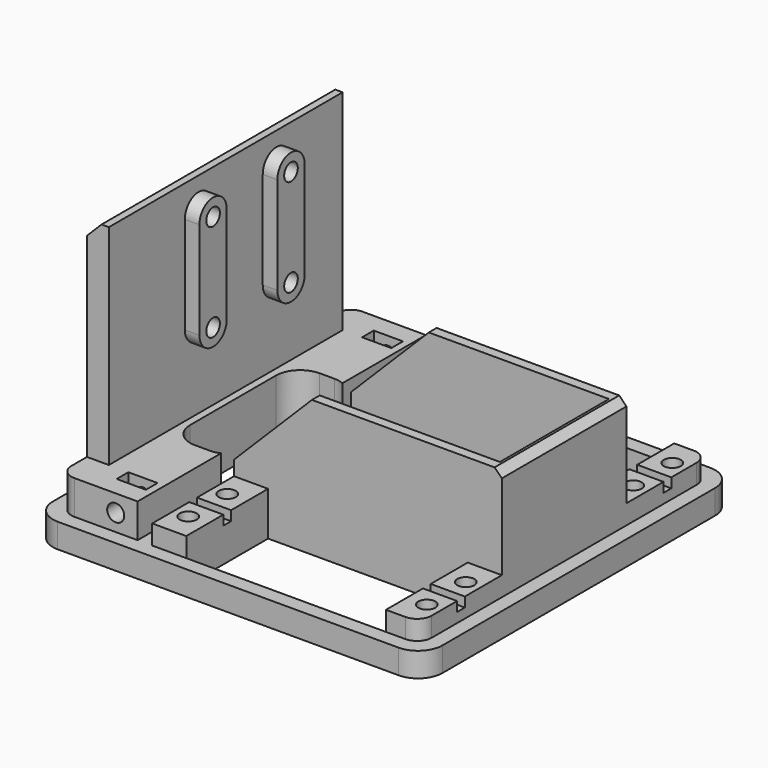
from build123d import *

# Parameters (mm, degrees)
BOX035_W                = 6
BOX035_H                = 38
BOX035_DEPTH            = 68
CYLINDER040_R           = 1.75
CYLINDER040_DEPTH       = 31
CYLINDER040_PITCH_ANGLE = 90
CYLINDER041_R           = 1.75
CYLINDER041_DEPTH       = 31
CYLINDER041_PITCH_ANGLE = 90
CYLINDER_R              = 1.75
CYLINDER_DEPTH          = 31
CYLINDER_PITCH_ANGLE    = 90
CYLINDER053_R           = 1.75
CYLINDER053_DEPTH       = 31
CYLINDER053_PITCH_ANGLE = 90
PAD_DEPTH               = 5
BOX037_W                = 61
BOX037_H                = 28
BOX037_DEPTH            = 44
BOX036_W                = 13
BOX036_H                = 32
BOX036_DEPTH            = 17
FILLET018002_R          = 5
BOX033_W                = 4.5
BOX033_H                = 60
BOX033_DEPTH            = 54
CYLINDER013_R           = 1.75
CYLINDER013_DEPTH       = 31
CYLINDER013_ROLL_ANGLE  = 90
CYLINDER012_R           = 1.75
CYLINDER012_DEPTH       = 31
CYLINDER012_ROLL_ANGLE  = 90
BOX018_W                = 6
BOX018_H                = 3
BOX018_DEPTH            = 12
BOX016_W                = 6
BOX016_H                = 3
BOX016_DEPTH            = 12
BOX017_W                = 16
BOX017_H                = 74
BOX017_DEPTH            = 12
BOX015_W                = 41
BOX015_H                = 21
BOX015_DEPTH            = 43
BOX014_W                = 41
BOX014_H                = 21
BOX014_DEPTH            = 43
CYLINDER008_R           = 1.75
CYLINDER008_DEPTH       = 21.5
CYLINDER008_PITCH_ANGLE = 90
CYLINDER009_R           = 3
CYLINDER009_DEPTH       = 21.5
CYLINDER009_PITCH_ANGLE = 90
FUSION009_PITCH_ANGLE   = 90
FUSION010_PITCH_ANGLE   = 90
FUSION008_PITCH_ANGLE   = 90
FUSION005_PITCH_ANGLE   = 90
BOX012_W                = 70
BOX012_H                = 2
BOX012_DEPTH            = 9
BOX011_W                = 7
BOX011_H                = 74
BOX011_DEPTH            = 9
BOX010_W                = 7
BOX010_H                = 74
BOX010_DEPTH            = 9
BOX009_W                = 80
BOX009_H                = 80
BOX009_DEPTH            = 5
BOX032_W                = 55
BOX032_H                = 32
BOX032_DEPTH            = 25
CHAMFER003_SIZE         = 3
FILLET018013_1_R        = 5
FILLET018013_2_R        = 3
CHAMFER004_1_SIZE       = 16
CHAMFER004_2_SIZE       = 1.5


with BuildPart() as cube035:
    # Box035 → Box035 (new body)
    with BuildSketch(Plane(origin=(-23.5, 17, 68), x_dir=(1, 0, 0), z_dir=(0, 0, 1))):
        with Locations((3, 19)):
            Rectangle(BOX035_W, BOX035_H)
    extrude(amount=BOX035_DEPTH)


with BuildPart() as cylinder062:
    # Cylinder040 → Cylinder040 (new body)
    with BuildSketch(Plane.XY):
        Circle(CYLINDER040_R)
    extrude(amount=CYLINDER040_DEPTH)


with BuildPart() as cylinder062_1:
    # Cylinder040 pitch: moved
    add(cylinder062.part.rotate(Axis((0, 0, 0), (0, 1, 0)), CYLINDER040_PITCH_ANGLE))


with BuildPart() as cylinder062_2:
    # Cylinder040 placement: moved
    add(cylinder062_1.part.moved(Location((-49.5, 49, 91.5))))


with BuildPart() as cylinder063:
    # Cylinder041 → Cylinder041 (new body)
    with BuildSketch(Plane.XY):
        Circle(CYLINDER041_R)
    extrude(amount=CYLINDER041_DEPTH)


with BuildPart() as cylinder063_1:
    # Cylinder041 pitch: moved
    add(cylinder063.part.rotate(Axis((0, 0, 0), (0, 1, 0)), CYLINDER041_PITCH_ANGLE))


with BuildPart() as cylinder063_2:
    # Cylinder041 placement: moved
    add(cylinder063_1.part.moved(Location((-49.5, 49, 111.5))))


with BuildPart() as cylinder061:
    # Cylinder → Cylinder (new body)
    with BuildSketch(Plane.XY):
        Circle(CYLINDER_R)
    extrude(amount=CYLINDER_DEPTH)


with BuildPart() as cylinder061_1:
    # Cylinder pitch: moved
    add(cylinder061.part.rotate(Axis((0, 0, 0), (0, 1, 0)), CYLINDER_PITCH_ANGLE))


with BuildPart() as cylinder061_2:
    # Cylinder placement: moved
    add(cylinder061_1.part.moved(Location((-49.5, 29, 111.5))))


with BuildPart() as fusion038:
    # Cylinder053 → Cylinder053 (new body)
    with BuildSketch(Plane.XY):
        Circle(CYLINDER053_R)
    extrude(amount=CYLINDER053_DEPTH)


with BuildPart() as fusion038_1:
    # Cylinder053 pitch: moved
    add(fusion038.part.rotate(Axis((0, 0, 0), (0, 1, 0)), CYLINDER053_PITCH_ANGLE))


with BuildPart() as fusion038_2:
    # Cylinder053 placement: moved
    add(fusion038_1.part.moved(Location((-49.5, 29, 91.5))))

    # Fusion038: union Cylinder062, Cylinder063, Cylinder061
    add(cylinder062_2.part)
    add(cylinder063_2.part)
    add(cylinder061_2.part)


with BuildPart() as fusion038_3:
    # Fusion038 placement: moved
    add(fusion038_2.part.moved(Location((14, 0, 0))))


with BuildPart() as pad:
    # Sketch → Pad (new body)
    with BuildSketch(Plane(origin=(-22, 0, 0), x_dir=(0, -1, 0), z_dir=(-1, 0, 0))):
        with BuildLine():
            ThreePointArc((-45.5, 111.5), (-49, 115), (-52.5, 111.5))
            Line((-52.5, 111.5), (-52.5, 91.5))
            ThreePointArc((-52.5, 91.5), (-49, 88), (-45.5, 91.500001))
            Line((-45.5, 111.5), (-45.5, 91.500001))
        make_face()
    extrude(amount=-PAD_DEPTH)


with BuildPart() as clone_of_pad:
    # Clone base: copy of Pad
    add(pad.part)


with BuildPart() as clone_of_pad_1:
    # Clone placement: moved
    add(clone_of_pad.part.moved(Location((0, -20, 0))))


with BuildPart() as fusion039:
    # Fusion039 base: copy of Pad
    add(pad.part)

    # Fusion039: union Clone of Pad
    add(clone_of_pad_1.part)


with BuildPart() as fusion039_1:
    # Fusion039 placement: moved
    add(fusion039.part.moved(Location((4.5, 0, 0))))


with BuildPart() as cube036:
    # Box037 → Box037 (new body)
    with BuildSketch(Plane(origin=(-9, 22, 66), x_dir=(1, 0, 0), z_dir=(0, 0, 1))):
        with Locations((30.5, 14)):
            Rectangle(BOX037_W, BOX037_H)
    extrude(amount=BOX037_DEPTH)


with BuildPart() as fillet018002:
    # Box036 → Box036 (new body)
    with BuildSketch(Plane(origin=(-14, 20, 62), x_dir=(1, 0, 0), z_dir=(0, 0, 1))):
        with Locations((6.5, 16)):
            Rectangle(BOX036_W, BOX036_H)
    extrude(amount=BOX036_DEPTH)

    # Fillet018002
    fillet018002_edges = [fillet018002.edges().sort_by_distance(p)[0] for p in [
        (-14, 20, 70.5),
        (-14, 52, 70.5),
        (-1, 20, 70.5),
        (-1, 52, 70.5),
    ]]
    fillet(fillet018002_edges, radius=FILLET018002_R)


with BuildPart() as cube033:
    # Box033 → Box033 (new body)
    with BuildSketch(Plane(origin=(-20, 6, 64), x_dir=(1, 0, 0), z_dir=(0, 0, 1))):
        with Locations((2.25, 30)):
            Rectangle(BOX033_W, BOX033_H)
    extrude(amount=BOX033_DEPTH)


with BuildPart() as cylinder001:
    # Cylinder013 → Cylinder013 (new body)
    with BuildSketch(Plane.XY):
        Circle(CYLINDER013_R)
    extrude(amount=CYLINDER013_DEPTH)


with BuildPart() as cylinder001_1:
    # Cylinder013 roll: moved
    add(cylinder001.part.rotate(Axis((0, 0, 0), (1, 0, 0)), CYLINDER013_ROLL_ANGLE))


with BuildPart() as cylinder001_2:
    # Cylinder013 placement: moved
    add(cylinder001_1.part.moved(Location((-8.5, 11, 71.5))))


with BuildPart() as cylinder030:
    # Cylinder012 → Cylinder012 (new body)
    with BuildSketch(Plane.XY):
        Circle(CYLINDER012_R)
    extrude(amount=CYLINDER012_DEPTH)


with BuildPart() as cylinder030_1:
    # Cylinder012 roll: moved
    add(cylinder030.part.rotate(Axis((0, 0, 0), (1, 0, 0)), CYLINDER012_ROLL_ANGLE))


with BuildPart() as cylinder030_2:
    # Cylinder012 placement: moved
    add(cylinder030_1.part.moved(Location((-8.5, 92, 71.5))))


with BuildPart() as cube018:
    # Box018 → Box018 (new body)
    with BuildSketch(Plane(origin=(-11.5, 66, 69), x_dir=(1, 0, 0), z_dir=(0, 0, 1))):
        with Locations((3, 1.5)):
            Rectangle(BOX018_W, BOX018_H)
    extrude(amount=BOX018_DEPTH)


with BuildPart() as cube016:
    # Box016 → Box016 (new body)
    with BuildSketch(Plane(origin=(-11.5, 3, 69), x_dir=(1, 0, 0), z_dir=(0, 0, 1))):
        with Locations((3, 1.5)):
            Rectangle(BOX016_W, BOX016_H)
    extrude(amount=BOX016_DEPTH)


with BuildPart() as cube017:
    # Box017 → Box017 (new body)
    with BuildSketch(Plane(origin=(-20, -1, 63), x_dir=(1, 0, 0), z_dir=(0, 0, 1))):
        with Locations((8, 37)):
            Rectangle(BOX017_W, BOX017_H)
    extrude(amount=BOX017_DEPTH)


with BuildPart() as cube015:
    # Box015 → Box015 (new body)
    with BuildSketch(Plane(origin=(6, 52, 59), x_dir=(1, 0, 0), z_dir=(0, 0, 1))):
        with Locations((20.5, 10.5)):
            Rectangle(BOX015_W, BOX015_H)
    extrude(amount=BOX015_DEPTH)


with BuildPart() as cube014:
    # Box014 → Box014 (new body)
    with BuildSketch(Plane(origin=(6, -1, 59), x_dir=(1, 0, 0), z_dir=(0, 0, 1))):
        with Locations((20.5, 10.5)):
            Rectangle(BOX014_W, BOX014_H)
    extrude(amount=BOX014_DEPTH)


with BuildPart() as joint_d010:
    # Cylinder008 → Cylinder008 (new body)
    with BuildSketch(Plane.XY):
        Circle(CYLINDER008_R)
    extrude(amount=CYLINDER008_DEPTH)


with BuildPart() as joint_d010_1:
    # Cylinder008 pitch: moved
    add(joint_d010.part.rotate(Axis((0, 0, 0), (0, 1, 0)), CYLINDER008_PITCH_ANGLE))


with BuildPart() as joint_d010_2:
    # Cylinder008 placement: moved
    add(joint_d010_1.part.moved(Location((16, -24.5, 7))))


with BuildPart() as joint_d011:
    # Cylinder009 → Cylinder009 (new body)
    with BuildSketch(Plane.XY):
        Circle(CYLINDER009_R)
    extrude(amount=CYLINDER009_DEPTH)


with BuildPart() as joint_d011_1:
    # Cylinder009 pitch: moved
    add(joint_d011.part.rotate(Axis((0, 0, 0), (0, 1, 0)), CYLINDER009_PITCH_ANGLE))


with BuildPart() as joint_d011_2:
    # Cylinder009 placement: moved
    add(joint_d011_1.part.moved(Location((32, -24.5, 7))))


with BuildPart() as fusion009:
    # Fusion009 base: copy of Joint-D011
    add(joint_d011_2.part)

    # Fusion009: union Joint-D010
    add(joint_d010_2.part)


with BuildPart() as fusion009_1:
    # Fusion009 pitch: moved
    add(fusion009.part.rotate(Axis((0, 0, 0), (0, 1, 0)), FUSION009_PITCH_ANGLE))


with BuildPart() as fusion009_2:
    # Fusion009 placement: moved
    add(fusion009_1.part.moved(Location((-5, 39, 98))))


with BuildPart() as fusion010:
    # Fusion010 base: copy of Joint-D011
    add(joint_d011_2.part)

    # Fusion010: union Joint-D010
    add(joint_d010_2.part)


with BuildPart() as fusion010_1:
    # Fusion010 pitch: moved
    add(fusion010.part.rotate(Axis((0, 0, 0), (0, 1, 0)), FUSION010_PITCH_ANGLE))


with BuildPart() as fusion010_2:
    # Fusion010 placement: moved
    add(fusion010_1.part.moved(Location((-5, 29, 98))))


with BuildPart() as fusion008:
    # Fusion008 base: copy of Joint-D011
    add(joint_d011_2.part)

    # Fusion008: union Joint-D010
    add(joint_d010_2.part)


with BuildPart() as fusion008_1:
    # Fusion008 pitch: moved
    add(fusion008.part.rotate(Axis((0, 0, 0), (0, 1, 0)), FUSION008_PITCH_ANGLE))


with BuildPart() as fusion008_2:
    # Fusion008 placement: moved
    add(fusion008_1.part.moved(Location((44, 29, 98))))


with BuildPart() as fusion005:
    # Fusion005 base: copy of Joint-D011
    add(joint_d011_2.part)

    # Fusion005: union Joint-D010
    add(joint_d010_2.part)


with BuildPart() as fusion005_1:
    # Fusion005 pitch: moved
    add(fusion005.part.rotate(Axis((0, 0, 0), (0, 1, 0)), FUSION005_PITCH_ANGLE))


with BuildPart() as fusion005_2:
    # Fusion005 placement: moved
    add(fusion005_1.part.moved(Location((44, 39, 98))))


with BuildPart() as cube012:
    # Box012 → Box012 (new body)
    with BuildSketch(Plane(origin=(-6, 8.5, 70), x_dir=(1, 0, 0), z_dir=(0, 0, 1))):
        with Locations((35, 1)):
            Rectangle(BOX012_W, BOX012_H)
    extrude(amount=BOX012_DEPTH)


with BuildPart() as fusion011:
    # Fusion011 base: copy of Cube012
    add(cube012.part)

    # Fusion011: union Fusion009, Fusion010, Fusion008, Fusion005
    add(fusion009_2.part)
    add(fusion010_2.part)
    add(fusion008_2.part)
    add(fusion005_2.part)


with BuildPart() as fusion012:
    # Fusion012 base: copy of Cube012
    add(cube012.part)

    # Fusion012: union Fusion009, Fusion010, Fusion008, Fusion005
    add(fusion009_2.part)
    add(fusion010_2.part)
    add(fusion008_2.part)
    add(fusion005_2.part)


with BuildPart() as fusion012_1:
    # Fusion012 placement: moved
    add(fusion012.part.moved(Location((0, 53, 0))))


with BuildPart() as cube011:
    # Box011 → Box011 (new body)
    with BuildSketch(Plane(origin=(47, -1, 63), x_dir=(1, 0, 0), z_dir=(0, 0, 1))):
        with Locations((3.5, 37)):
            Rectangle(BOX011_W, BOX011_H)
    extrude(amount=BOX011_DEPTH)


with BuildPart() as cube010:
    # Box010 → Box010 (new body)
    with BuildSketch(Plane(origin=(-1, -1, 63), x_dir=(1, 0, 0), z_dir=(0, 0, 1))):
        with Locations((3.5, 37)):
            Rectangle(BOX010_W, BOX010_H)
    extrude(amount=BOX010_DEPTH)


with BuildPart() as cut050:
    # Box009 → Box009 (new body)
    with BuildSketch(Plane(origin=(-23, -4, 63), x_dir=(1, 0, 0), z_dir=(0, 0, 1))):
        with Locations((40, 40)):
            Rectangle(BOX009_W, BOX009_H)
    extrude(amount=BOX009_DEPTH)

    # Fusion013: union Cube011, Cube010
    add(cube011.part)
    add(cube010.part)

    # Cut018: cut Fusion012
    add(fusion012_1.part, mode=Mode.SUBTRACT)

    # Cut019: cut Fusion011
    add(fusion011.part, mode=Mode.SUBTRACT)

    # Cut020: cut Cube014
    add(cube014.part, mode=Mode.SUBTRACT)

    # Cut021: cut Cube015
    add(cube015.part, mode=Mode.SUBTRACT)

    # Fusion014: union Cube017
    add(cube017.part)

    # Cut022: cut Cube016
    add(cube016.part, mode=Mode.SUBTRACT)

    # Cut023: cut Cube018
    add(cube018.part, mode=Mode.SUBTRACT)

    # Cut024: cut Cylinder030
    add(cylinder030_2.part, mode=Mode.SUBTRACT)

    # Cut050: cut Cylinder001
    add(cylinder001_2.part, mode=Mode.SUBTRACT)


with BuildPart() as obj1:
    # Box032 → Box032 (new body)
    with BuildSketch(Plane(origin=(-1, 20, 66), x_dir=(1, 0, 0), z_dir=(0, 0, 1))):
        with Locations((27.5, 16)):
            Rectangle(BOX032_W, BOX032_H)
    extrude(amount=BOX032_DEPTH)

    # Fusion025: union Cut050
    add(cut050.part)

    # Fusion026: union Cube033
    add(cube033.part)

    # Cut051: cut Fillet018002
    add(fillet018002.part, mode=Mode.SUBTRACT)

    # Cut066: cut Cube036
    add(cube036.part, mode=Mode.SUBTRACT)

    # Chamfer003
    chamfer003_edges = [obj1.edges().sort_by_distance(p)[0] for p in [
        (-20, 36, 118),
    ]]
    chamfer(chamfer003_edges, length=CHAMFER003_SIZE)

    # Fusion040: union Fusion039
    add(fusion039_1.part)

    # Cut067: cut Fusion038
    add(fusion038_3.part, mode=Mode.SUBTRACT)

    # Cut068: cut Cube035
    add(cube035.part, mode=Mode.SUBTRACT)

    # Fillet018013 1
    fillet018013_1_edges = [obj1.edges().sort_by_distance(p)[0] for p in [
        (-23, -4, 65.5),
        (-23, 76, 65.5),
        (57, 76, 65.5),
        (57, -4, 65.5),
    ]]
    fillet(fillet018013_1_edges, radius=FILLET018013_1_R)

    # Fillet018013 2
    fillet018013_2_edges = [obj1.edges().sort_by_distance(p)[0] for p in [
        (-20, -1, 71.5),
        (-20, 73, 71.5),
        (54, -1, 70),
        (54, 73, 70),
    ]]
    fillet(fillet018013_2_edges, radius=FILLET018013_2_R)

    # Chamfer004 1
    chamfer004_1_edges = [obj1.edges().sort_by_distance(p)[0] for p in [
        (-1, 21, 91),
        (-1, 51, 91),
    ]]
    chamfer(chamfer004_1_edges, length=CHAMFER004_1_SIZE)

    # Chamfer004 2
    chamfer004_2_edges = [obj1.edges().sort_by_distance(p)[0] for p in [
        (54, 36, 91),
    ]]
    chamfer(chamfer004_2_edges, length=CHAMFER004_2_SIZE)


solid = obj1.part
